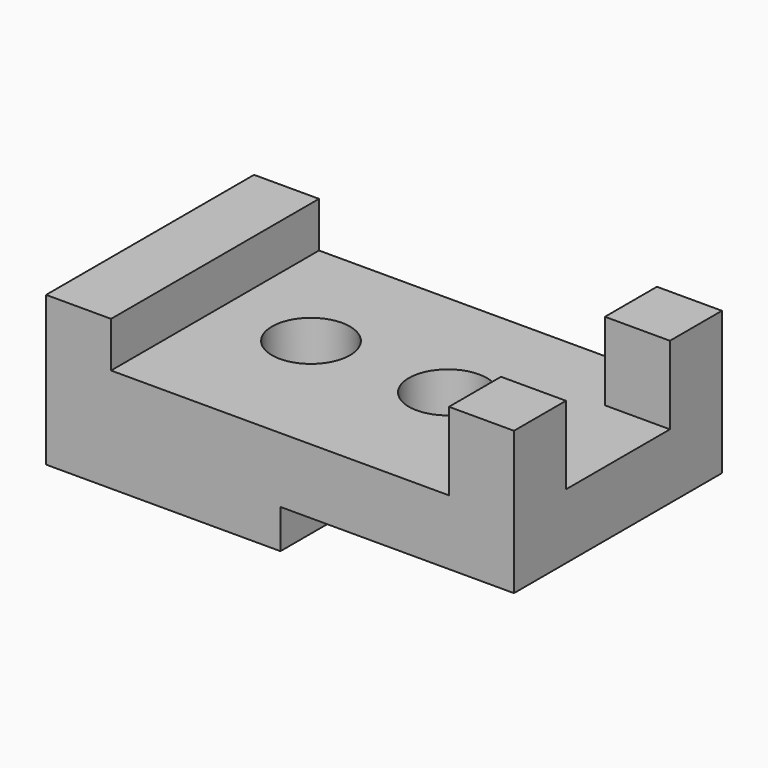
from build123d import *

# Parameters (mm, degrees)
F0_W      = 114.3
F0_H      = 63.5
F1_DEPTH  = 36.5125
F2_W      = 114.3
F2_H      = 63.5
F3_DEPTH  = 11.1125
F4_W      = 57.1499951184
F4_H      = 64.068160916
F5_DEPTH  = 9.525
F6_W      = 15.875
F6_H      = 15.875
F7_DEPTH  = 19.05
F8_W      = 15.875
F8_H      = 15.875
F9_DEPTH  = 19.05
F10_W     = 15.875
F10_H     = 63.5
F11_DEPTH = 11.1125
F12_R     = 9.525
F13_DEPTH = 25.4
F14_R     = 9.525
F15_DEPTH = 25.4


with BuildPart() as f1:
    # F0 (on Top) → F1 (new body)
    with BuildSketch(Plane.XY):
        with Locations((57.15, 31.75)):
            Rectangle(F0_W, F0_H)
    extrude(amount=F1_DEPTH)

    # F2 (on face) → F3 (cut)
    with BuildSketch(Plane.XY.offset(36.5125)):
        with Locations((57.15, 31.75)):
            Rectangle(F2_W, F2_H)
    extrude(amount=-F3_DEPTH, mode=Mode.SUBTRACT)

    # F4 (on Top) → F5 (cut)
    with BuildSketch(Plane.XY):
        with Locations((85.8252625912, 32.034080458)):
            Rectangle(F4_W, F4_H)
    extrude(amount=F5_DEPTH, mode=Mode.SUBTRACT)

    # F6 (on face) → F7 (join)
    with BuildSketch(Plane.XY.offset(25.4)):
        with Locations((106.3625, 7.9375)):
            Rectangle(F6_W, F6_H)
    extrude(amount=F7_DEPTH)

    # F8 (on face) → F9 (join)
    with BuildSketch(Plane.XY.offset(25.4)):
        with Locations((106.3625, 55.5625)):
            Rectangle(F8_W, F8_H)
    extrude(amount=F9_DEPTH)

    # F10 (on face) → F11 (join)
    with BuildSketch(Plane.XY.offset(25.4)):
        with Locations((7.9375, 31.75)):
            Rectangle(F10_W, F10_H)
    extrude(amount=F11_DEPTH)

    # F12 (on face) → F13 (cut)
    with BuildSketch(Plane.XY.offset(25.4)):
        with Locations((37.9997342825, 33.3876311779)):
            Circle(F12_R)
    extrude(amount=-F13_DEPTH, mode=Mode.SUBTRACT)

    # F14 (on face) → F15 (cut)
    with BuildSketch(Plane.XY.offset(25.4)):
        with Locations((71.6881528497, 33.0868437886)):
            Circle(F14_R)
    extrude(amount=-F15_DEPTH, mode=Mode.SUBTRACT)


solid = f1.part
